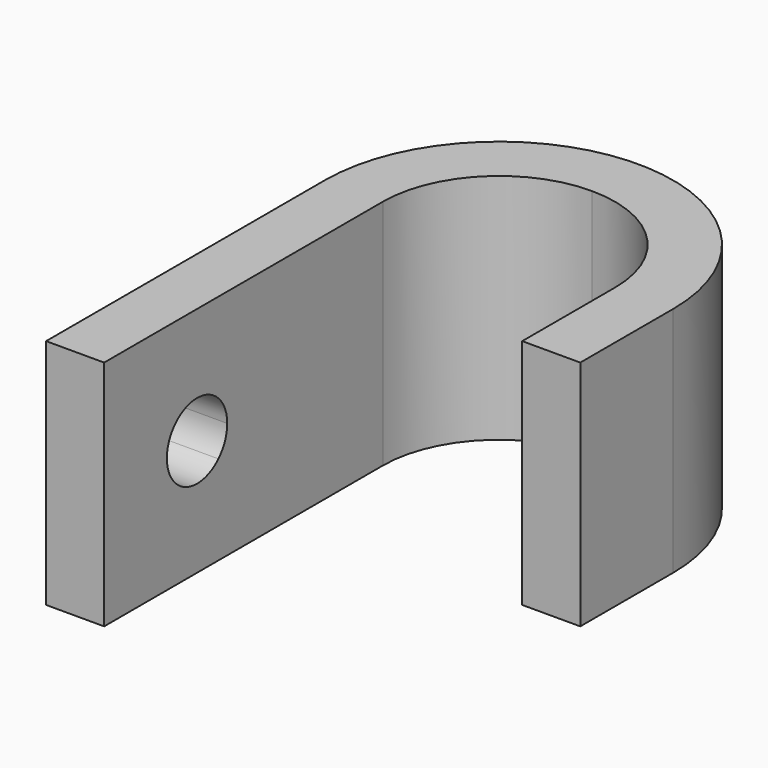
from build123d import *

# Parameters (mm, degrees)
F1_DEPTH = 20
F3_DEPTH = 25


with BuildPart() as f1:
    # F0 (on Top) → F1 (new body)
    with BuildSketch(Plane.XY):
        with BuildLine():
            Line((-5, 0), (0, 0))
            Line((0, 0), (0, 10))
            ThreePointArc((0, 10), (-4.3933982822, 20.6066017178), (-15, 25))
            ThreePointArc((-15, 25), (-25.6066017178, 20.6066017178), (-30, 10))
            Line((-30, 10), (-30, -20))
            Line((-30, -20), (-25, -20))
            Line((-25, -20), (-25, 10))
            ThreePointArc((-25, 10), (-22.0710678119, 17.0710678119), (-15, 20))
            ThreePointArc((-15, 20), (-7.9289321881, 17.0710678119), (-5, 10))
            Line((-5, 10), (-5, 0))
        make_face()
    extrude(amount=F1_DEPTH)

    # F2 (on face) → F3 (cut)
    with BuildSketch(Plane.YZ.offset(-25)):
        with BuildLine():
            ThreePointArc((-6.75, 10), (-8.7562788448, 13.0026084807), (-12.2980970389, 12.2980970389))
            Line((-12.2980970389, 12.2980970389), (-7.7019029611, 7.7019029611))
            ThreePointArc((-7.7019029611, 7.7019029611), (-6.9973915193, 8.7562788448), (-6.75, 10))
        make_face()
        with BuildLine():
            Line((-7.7019029611, 7.7019029611), (-12.2980970389, 12.2980970389))
            ThreePointArc((-12.2980970389, 12.2980970389), (-12.2980970389, 7.7019029611), (-7.7019029611, 7.7019029611))
        make_face()
    extrude(amount=-F3_DEPTH, mode=Mode.SUBTRACT)


solid = f1.part
